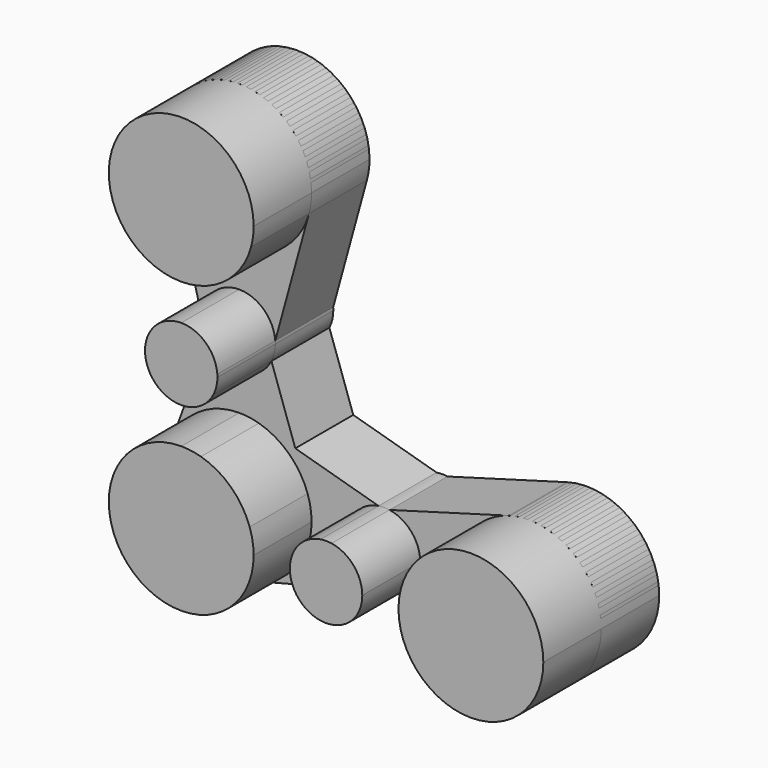
from build123d import *

# Parameters (mm, degrees)
F1_DEPTH = 50.8
F2_DEPTH = 25.4


with BuildPart() as f1:
    # F0 (on Front) → F1 (new body)
    with BuildSketch(Plane.XZ):
        with BuildLine():
            ThreePointArc((-137.9871743623, 67.5235991138), (-128.9479899805, 53.7931359717), (-113.3937301139, 48.4735991138))
            ThreePointArc((-113.3937301139, 48.4735991138), (-97.9925024501, 53.6755252836), (-88.8996251196, 67.1505923067))
            ThreePointArc((-88.8996251196, 67.1505923067), (-88.221222622, 70.4817166612), (-87.9937301139, 73.8735991138))
            ThreePointArc((-87.9937301139, 73.8735991138), (-116.5942391429, 99.071153399), (-137.9871743623, 67.5235991138))
        make_face()
    extrude(amount=F1_DEPTH)


with BuildPart() as f1b:
    # F0 (on Front) → F1, piece 2 (new body)
    with BuildSketch(Plane.XZ):
        with BuildLine():
            Line((-113.3937301139, 23.0735991138), (-113.3937301139, 35.7735991138))
            ThreePointArc((-113.3937301139, 35.7735991138), (-123.4339616849, 30.8507290471), (-125.6904522381, 19.8985991138))
            ThreePointArc((-125.6904522381, 19.8985991138), (-125.0762783357, 18.0928293896), (-124.1985960163, 16.3994045683))
            ThreePointArc((-124.1985960163, 16.3994045683), (-119.5795093401, 11.9818843968), (-113.3937301139, 10.3735991138))
            Line((-113.3937301139, 10.3735991138), (-113.3937301139, 23.0735991138))
        make_face()
        with BuildLine():
            ThreePointArc((-100.73095144, 24.0452143962), (-104.7638261192, 32.3910428106), (-113.3937301139, 35.7735991138))
            Line((-113.3937301139, 35.7735991138), (-113.3937301139, 23.0735991138))
            Line((-113.3937301139, 23.0735991138), (-113.3937301139, 10.3735991138))
            ThreePointArc((-113.3937301139, 10.3735991138), (-106.7479444034, 12.2512365117), (-102.0672572423, 17.3289483594))
            ThreePointArc((-102.0672572423, 17.3289483594), (-101.0418839873, 20.1203132716), (-100.6937301139, 23.0735991138))
            ThreePointArc((-100.6937301139, 23.0735991138), (-100.7030388569, 23.5597630995), (-100.73095144, 24.0452143962))
        make_face()
    extrude(amount=F1_DEPTH)


with BuildPart() as f1c:
    # F0 (on Front) → F1, piece 3 (new body)
    with BuildSketch(Plane.XZ):
        with BuildLine():
            Line((-113.3937301139, -27.7263897808), (-113.3937301139, -2.3263897808))
            ThreePointArc((-113.3937301139, -2.3263897808), (-127.919833657, -6.890067748), (-137.2260585632, -18.94116806))
            ThreePointArc((-137.2260585632, -18.94116806), (-132.2336289319, -44.7621818823), (-107.0437301139, -52.3198340292))
            ThreePointArc((-107.0437301139, -52.3198340292), (-93.3132669718, -43.2806496474), (-87.9937301139, -27.7263897808))
            Line((-87.9937301139, -27.7263897808), (-113.3937301139, -27.7263897808))
        make_face()
        with BuildLine():
            ThreePointArc((-106.473283211, -3.2873346709), (-109.9003077082, -2.5677729687), (-113.3937301139, -2.3263897808))
            Line((-113.3937301139, -2.3263897808), (-113.3937301139, -27.7263897808))
            Line((-113.3937301139, -27.7263897808), (-87.9937301139, -27.7263897808))
            ThreePointArc((-87.9937301139, -27.7263897808), (-88.3432635278, -23.5270893845), (-89.3822438003, -19.4433634609))
            ThreePointArc((-89.3822438003, -19.4433634609), (-95.945221877, -9.2680702389), (-106.473283211, -3.2873346709))
        make_face()
    extrude(amount=F1_DEPTH)


with BuildPart() as f1d:
    # F0 (on Front) → F1, piece 4 (new body)
    with BuildSketch(Plane.XZ):
        with BuildLine():
            ThreePointArc((-60.6812406189, -15.1712161885), (-62.5937301139, -15.0263897808), (-64.5062196088, -15.1712161885))
            ThreePointArc((-64.5062196088, -15.1712161885), (-72.2264508247, -19.4498753147), (-75.2937301139, -27.7263897808))
            Line((-75.2937301139, -27.7263897808), (-62.5937301139, -27.7263897808))
            Line((-62.5937301139, -27.7263897808), (-49.8937301139, -27.7263897808))
            ThreePointArc((-49.8937301139, -27.7263897808), (-52.961009403, -19.4498753147), (-60.6812406189, -15.1712161885))
        make_face()
        with BuildLine():
            ThreePointArc((-75.2937301139, -27.7263897808), (-70.3708600472, -37.7666213518), (-59.4187301139, -40.023111905))
            ThreePointArc((-59.4187301139, -40.023111905), (-57.3852437316, -39.309207642), (-55.5017480057, -38.2617488054))
            ThreePointArc((-55.5017480057, -38.2617488054), (-51.3830616955, -33.6938778296), (-49.8937301139, -27.7263897808))
            Line((-49.8937301139, -27.7263897808), (-62.5937301139, -27.7263897808))
            Line((-62.5937301139, -27.7263897808), (-75.2937301139, -27.7263897808))
        make_face()
    extrude(amount=F1_DEPTH)


with BuildPart() as f1e:
    # F0 (on Front) → F1, piece 5 (new body)
    with BuildSketch(Plane.XZ):
        with BuildLine():
            ThreePointArc((13.6062698861, -27.7263897808), (3.5258757666, -7.4663385551), (-18.7141770167, -3.2873346709))
            ThreePointArc((-18.7141770167, -3.2873346709), (-32.0537813395, -12.4067839003), (-37.1937301139, -27.7263897808))
            ThreePointArc((-37.1937301139, -27.7263897808), (-32.7072718404, -42.1410965919), (-20.8328031491, -51.4636002037))
            ThreePointArc((-20.8328031491, -51.4636002037), (2.6209766973, -48.6399315073), (13.6062698861, -27.7263897808))
        make_face()
    extrude(amount=F1_DEPTH)


with BuildPart() as f2:
    # F0 (on Front) → F2 (new body)
    with BuildSketch(Plane.XZ):
        with BuildLine():
            ThreePointArc((-88.8996251196, 67.1505923067), (-97.9925024501, 53.6755252836), (-113.3937301139, 48.4735991138))
            Line((-113.3937301139, 48.4735991138), (-113.3937301139, 35.7735991138))
            ThreePointArc((-113.3937301139, 35.7735991138), (-104.7638261192, 32.3910428106), (-100.73095144, 24.0452143962))
            Line((-100.73095144, 24.0452143962), (-88.8996251196, 67.1505923067))
        make_face()
        with BuildLine():
            Line((-113.3937301139, 35.7735991138), (-113.3937301139, 48.4735991138))
            ThreePointArc((-113.3937301139, 48.4735991138), (-128.9479899805, 53.7931359717), (-137.9871743623, 67.5235991138))
            Line((-137.9871743623, 67.5235991138), (-125.6904522381, 19.8985991138))
            ThreePointArc((-125.6904522381, 19.8985991138), (-123.4339616849, 30.8507290471), (-113.3937301139, 35.7735991138))
        make_face()
        with BuildLine():
            ThreePointArc((-137.9871743623, 67.5235991138), (-128.9479899805, 53.7931359717), (-113.3937301139, 48.4735991138))
            ThreePointArc((-113.3937301139, 48.4735991138), (-97.9925024501, 53.6755252836), (-88.8996251196, 67.1505923067))
            ThreePointArc((-88.8996251196, 67.1505923067), (-88.221222622, 70.4817166612), (-87.9937301139, 73.8735991138))
            ThreePointArc((-87.9937301139, 73.8735991138), (-116.5942391429, 99.071153399), (-137.9871743623, 67.5235991138))
        make_face()
        with BuildLine():
            ThreePointArc((-100.73095144, 24.0452143962), (-104.7638261192, 32.3910428106), (-113.3937301139, 35.7735991138))
            Line((-113.3937301139, 35.7735991138), (-113.3937301139, 23.0735991138))
            Line((-113.3937301139, 23.0735991138), (-113.3937301139, 10.3735991138))
            ThreePointArc((-113.3937301139, 10.3735991138), (-106.7479444034, 12.2512365117), (-102.0672572423, 17.3289483594))
            ThreePointArc((-102.0672572423, 17.3289483594), (-101.0418839873, 20.1203132716), (-100.6937301139, 23.0735991138))
            ThreePointArc((-100.6937301139, 23.0735991138), (-100.7030388569, 23.5597630995), (-100.73095144, 24.0452143962))
        make_face()
        with BuildLine():
            Line((-113.3937301139, 23.0735991138), (-113.3937301139, 35.7735991138))
            ThreePointArc((-113.3937301139, 35.7735991138), (-123.4339616849, 30.8507290471), (-125.6904522381, 19.8985991138))
            ThreePointArc((-125.6904522381, 19.8985991138), (-125.0762783357, 18.0928293896), (-124.1985960163, 16.3994045683))
            ThreePointArc((-124.1985960163, 16.3994045683), (-119.5795093401, 11.9818843968), (-113.3937301139, 10.3735991138))
            Line((-113.3937301139, 10.3735991138), (-113.3937301139, 23.0735991138))
        make_face()
        with BuildLine():
            ThreePointArc((-102.0672572423, 17.3289483594), (-106.7479444034, 12.2512365117), (-113.3937301139, 10.3735991138))
            Line((-113.3937301139, 10.3735991138), (-113.3937301139, -2.3263897808))
            ThreePointArc((-113.3937301139, -2.3263897808), (-109.9003077082, -2.5677729687), (-106.473283211, -3.2873346709))
            Line((-106.473283211, -3.2873346709), (-93.7085434453, -6.901946749))
            Line((-93.7085434453, -6.901946749), (-102.0672572423, 17.3289483594))
        make_face()
        with BuildLine():
            Line((-113.3937301139, -2.3263897808), (-113.3937301139, 10.3735991138))
            ThreePointArc((-113.3937301139, 10.3735991138), (-119.5795093401, 11.9818843968), (-124.1985960163, 16.3994045683))
            Line((-124.1985960163, 16.3994045683), (-137.2260585632, -18.94116806))
            ThreePointArc((-137.2260585632, -18.94116806), (-127.919833657, -6.890067748), (-113.3937301139, -2.3263897808))
        make_face()
        with BuildLine():
            Line((-113.3937301139, -27.7263897808), (-113.3937301139, -2.3263897808))
            ThreePointArc((-113.3937301139, -2.3263897808), (-127.919833657, -6.890067748), (-137.2260585632, -18.94116806))
            ThreePointArc((-137.2260585632, -18.94116806), (-132.2336289319, -44.7621818823), (-107.0437301139, -52.3198340292))
            ThreePointArc((-107.0437301139, -52.3198340292), (-93.3132669718, -43.2806496474), (-87.9937301139, -27.7263897808))
            Line((-87.9937301139, -27.7263897808), (-113.3937301139, -27.7263897808))
        make_face()
        with BuildLine():
            Line((-93.7085434453, -6.901946749), (-106.473283211, -3.2873346709))
            ThreePointArc((-106.473283211, -3.2873346709), (-95.945221877, -9.2680702389), (-89.3822438003, -19.4433634609))
            Line((-89.3822438003, -19.4433634609), (-93.7085434453, -6.901946749))
        make_face()
        with BuildLine():
            Line((-64.5062196088, -15.1712161885), (-93.7085434453, -6.901946749))
            Line((-93.7085434453, -6.901946749), (-89.3822438003, -19.4433634609))
            ThreePointArc((-89.3822438003, -19.4433634609), (-88.3432635278, -23.5270893845), (-87.9937301139, -27.7263897808))
            Line((-87.9937301139, -27.7263897808), (-75.2937301139, -27.7263897808))
            ThreePointArc((-75.2937301139, -27.7263897808), (-72.2264508247, -19.4498753147), (-64.5062196088, -15.1712161885))
        make_face()
        with BuildLine():
            ThreePointArc((-87.9937301139, -27.7263897808), (-93.3132669718, -43.2806496474), (-107.0437301139, -52.3198340292))
            Line((-107.0437301139, -52.3198340292), (-59.4187301139, -40.023111905))
            ThreePointArc((-59.4187301139, -40.023111905), (-70.3708600472, -37.7666213518), (-75.2937301139, -27.7263897808))
            Line((-75.2937301139, -27.7263897808), (-87.9937301139, -27.7263897808))
        make_face()
        with BuildLine():
            ThreePointArc((-60.6812406189, -15.1712161885), (-62.5937301139, -15.0263897808), (-64.5062196088, -15.1712161885))
            ThreePointArc((-64.5062196088, -15.1712161885), (-72.2264508247, -19.4498753147), (-75.2937301139, -27.7263897808))
            Line((-75.2937301139, -27.7263897808), (-62.5937301139, -27.7263897808))
            Line((-62.5937301139, -27.7263897808), (-49.8937301139, -27.7263897808))
            ThreePointArc((-49.8937301139, -27.7263897808), (-52.961009403, -19.4498753147), (-60.6812406189, -15.1712161885))
        make_face()
        with BuildLine():
            ThreePointArc((-75.2937301139, -27.7263897808), (-70.3708600472, -37.7666213518), (-59.4187301139, -40.023111905))
            ThreePointArc((-59.4187301139, -40.023111905), (-57.3852437316, -39.309207642), (-55.5017480057, -38.2617488054))
            ThreePointArc((-55.5017480057, -38.2617488054), (-51.3830616955, -33.6938778296), (-49.8937301139, -27.7263897808))
            Line((-49.8937301139, -27.7263897808), (-62.5937301139, -27.7263897808))
            Line((-62.5937301139, -27.7263897808), (-75.2937301139, -27.7263897808))
        make_face()
        with BuildLine():
            Line((-18.7141770167, -3.2873346709), (-60.6812406189, -15.1712161885))
            ThreePointArc((-60.6812406189, -15.1712161885), (-52.961009403, -19.4498753147), (-49.8937301139, -27.7263897808))
            Line((-49.8937301139, -27.7263897808), (-37.1937301139, -27.7263897808))
            ThreePointArc((-37.1937301139, -27.7263897808), (-32.0537813395, -12.4067839003), (-18.7141770167, -3.2873346709))
        make_face()
        with BuildLine():
            ThreePointArc((-49.8937301139, -27.7263897808), (-51.3830616955, -33.6938778296), (-55.5017480057, -38.2617488054))
            Line((-55.5017480057, -38.2617488054), (-20.8328031491, -51.4636002037))
            ThreePointArc((-20.8328031491, -51.4636002037), (-32.7072718404, -42.1410965919), (-37.1937301139, -27.7263897808))
            Line((-37.1937301139, -27.7263897808), (-49.8937301139, -27.7263897808))
        make_face()
        with BuildLine():
            ThreePointArc((13.6062698861, -27.7263897808), (3.5258757666, -7.4663385551), (-18.7141770167, -3.2873346709))
            ThreePointArc((-18.7141770167, -3.2873346709), (-32.0537813395, -12.4067839003), (-37.1937301139, -27.7263897808))
            ThreePointArc((-37.1937301139, -27.7263897808), (-32.7072718404, -42.1410965919), (-20.8328031491, -51.4636002037))
            ThreePointArc((-20.8328031491, -51.4636002037), (2.6209766973, -48.6399315073), (13.6062698861, -27.7263897808))
        make_face()
    extrude(amount=F2_DEPTH)


solid = Compound([f1.part, f1b.part, f1c.part, f1d.part, f1e.part, f2.part])
